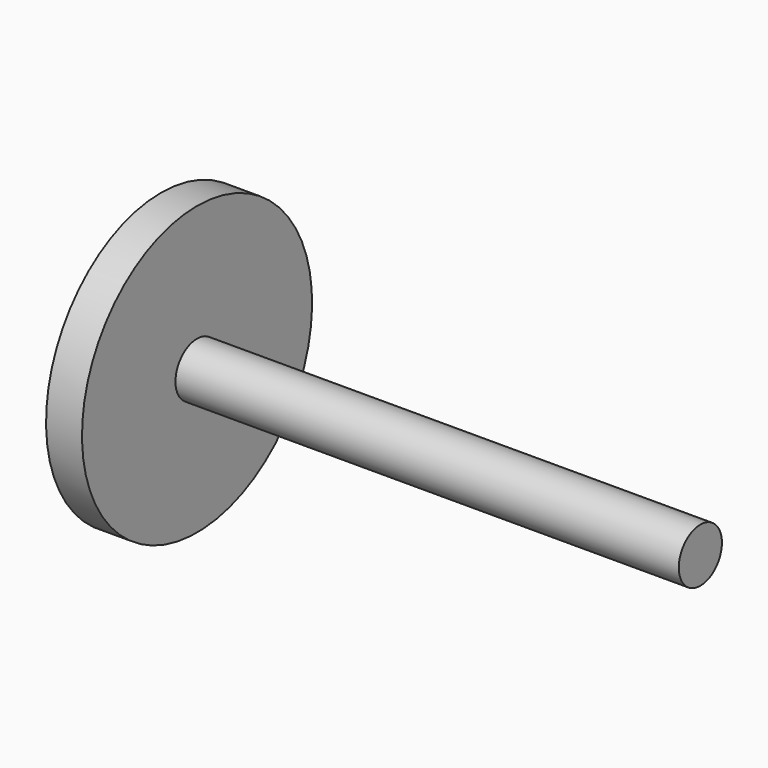
from build123d import *

# Parameters (mm, degrees)
F0_W   = 10
F0_H   = 32.5
F0_W_2 = 140
F0_H_2 = 7.5


with BuildPart() as f1:
    # F0 (on Front) → F1 (revolve)
    with BuildSketch(Plane.XZ):
        with Locations((0, 23.75)):
            Rectangle(F0_W, F0_H)
        with Locations((75, 3.75)):
            Rectangle(F0_W_2, F0_H_2)
    revolve(axis=Axis((79.403181, 0, 0), (1, 0, 0)))


solid = f1.part
